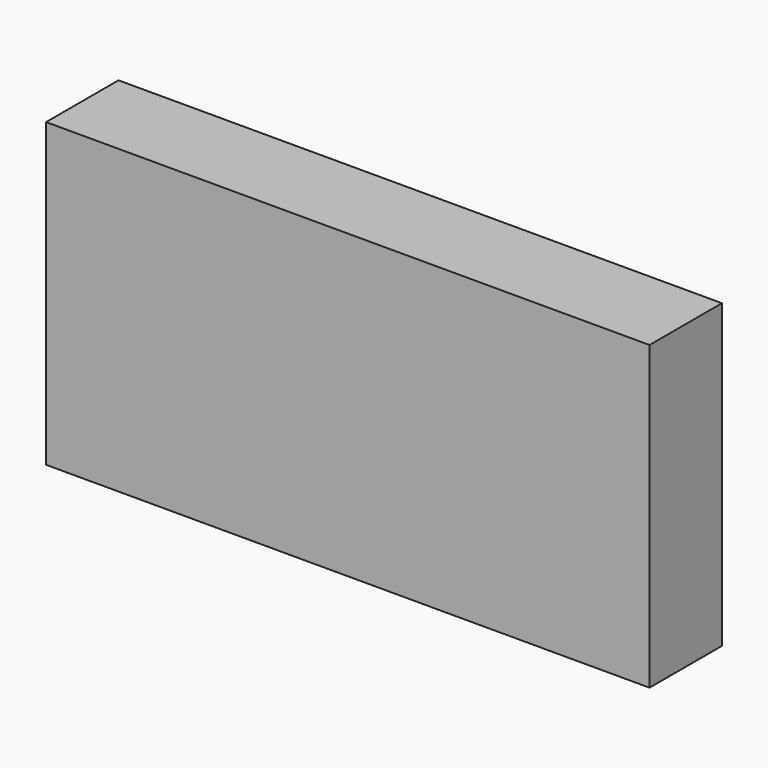
from build123d import *

# Parameters (mm, degrees)
SKETCH_W      = 100
SKETCH_H      = 15
EXTRUDE_DEPTH = 50


with BuildPart() as part:
    # Sketch → Extrude (new body)
    with BuildSketch(Plane.XY):
        Rectangle(SKETCH_W, SKETCH_H)
    extrude(amount=EXTRUDE_DEPTH)


solid = part.part
